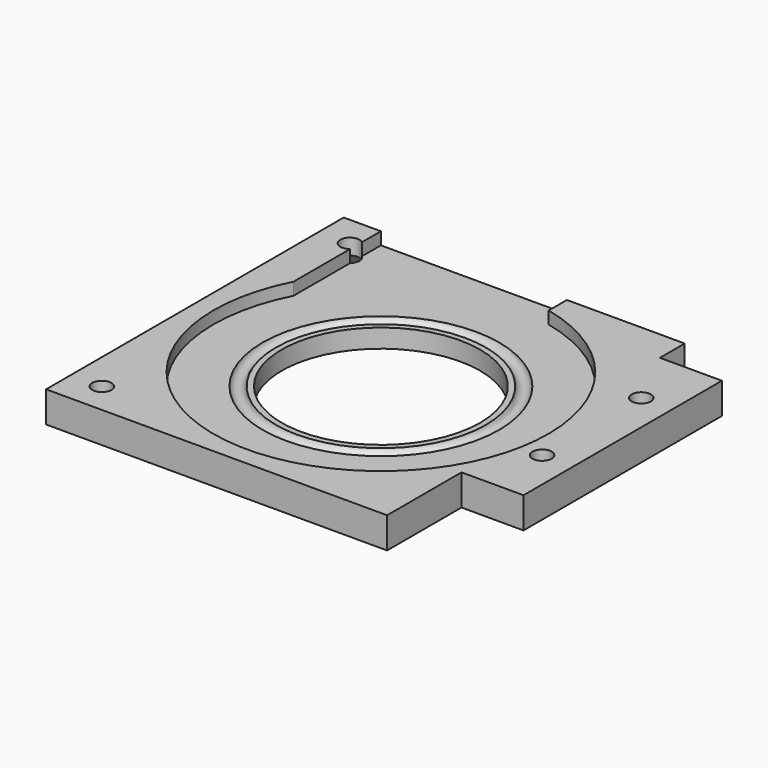
from build123d import *

# Parameters (mm, degrees)
SKETCH007_W      = 229.65287
SKETCH007_H      = 196.321915
POCKET003_DEPTH  = 10
HOLE_D           = 3.1
HOLE_DEPTH       = 25
HOLE_CSINK_D     = 8
HOLE_CSINK_ANGLE = 90
SKETCH009_W      = 30
SKETCH009_H      = 2
POCKET004_DEPTH  = 30


with BuildPart() as bearing_outside:
    # Sketch003 → Revolution001 (revolve)
    with BuildSketch(Plane.XZ):
        with BuildLine():
            Line((27, 2), (27, 0))
            Line((27, 0), (50, 0))
            Line((50, 0), (50, 5))
            Line((50, 5), (16, 5))
            Line((16, 5), (16, 2))
            Line((16, 2), (16.918335, 2))
            ThreePointArc((19.081665, 2), (18, 2.9), (16.918335, 2))
            Line((19.081665, 2), (20, 2))
            Line((20, 2), (27, 2))
        make_face()
    revolve(axis=Axis((0, 0, 0), (0, 0, 1)))

    # Sketch007 (on Face6 of Revolution001) → Pocket003 (cut)
    with BuildSketch(Plane(origin=(0, 0, 5), x_dir=(-1, 0, 0), z_dir=(0, 0, 1))):
        with Locations((6.373165, -15.747734)):
            Rectangle(SKETCH007_W, SKETCH007_H)
        Polygon((30, 30), (30, -30), (-25, -30), (-25, -25), (-35, -25), (-35, 15), (-25, 15), (-25, 30), align=None, mode=Mode.SUBTRACT)
    extrude(amount=-POCKET003_DEPTH, mode=Mode.SUBTRACT)

    # Hole
    with Locations(Plane(origin=(0, 0, 5), x_dir=(-1, 0, 0), z_dir=(0, 0, 1))):
        with Locations((25, 25), (25, -25), (-30, -15), (-30, 5)):
            CounterSinkHole(HOLE_D / 2, HOLE_CSINK_D / 2, depth=HOLE_DEPTH, counter_sink_angle=HOLE_CSINK_ANGLE)

    # Sketch009 (on Face13 of Hole) → Pocket004 (cut)
    with BuildSketch(Plane(origin=(0, 30, 0), x_dir=(1, 0, 0), z_dir=(0, 1, 0))):
        with Locations((-9, -1)):
            Rectangle(SKETCH009_W, SKETCH009_H)
    extrude(amount=-POCKET004_DEPTH, mode=Mode.SUBTRACT)


with BuildPart() as part_mirroring:
    # Part__Mirroring: instance of bearing-outside
    add(bearing_outside.part.mirror(Plane(origin=(0, 0, 0), x_dir=(0, 1, 0), z_dir=(0, 0, 1))))


solid = part_mirroring.part
